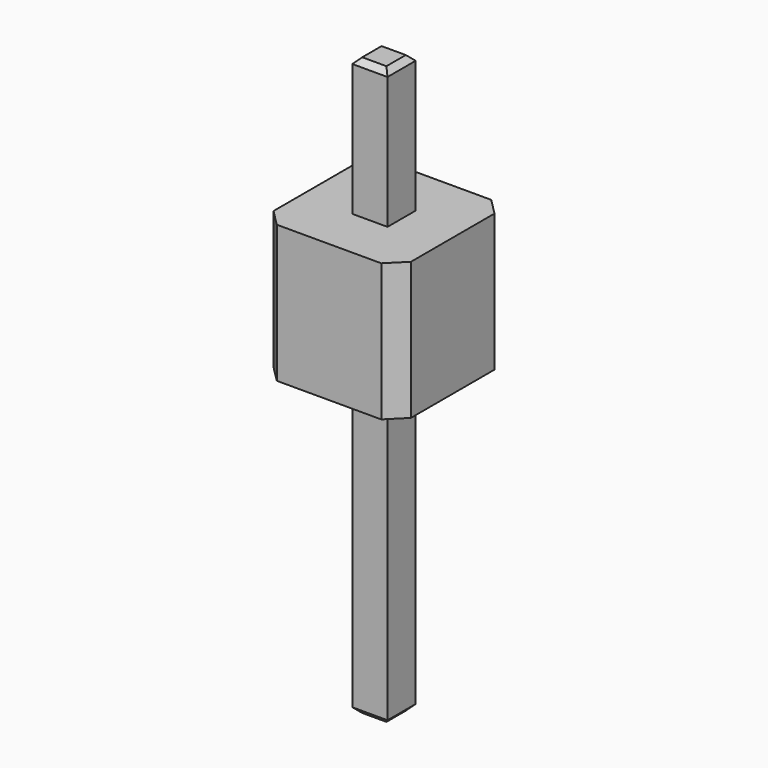
from build123d import *

# Parameters (mm, degrees)
SKETCH005_W                    = 2.5
SKETCH005_H                    = 2.5
PAD002001002001003002002_DEPTH = 2.5
CHAMFER_SIZE                   = 0.3
SKETCH006_W                    = 0.64
SKETCH006_H                    = 0.64
PAD002001002001003002003_DEPTH = 2.5
CHAMFER002002_SIZE             = 0.1
SKETCH007_W                    = 0.64
SKETCH007_H                    = 0.64
PAD002_DEPTH                   = 5.5
CHAMFER002_SIZE                = 0.1


with BuildPart() as part:
    # Sketch005 → Pad002001002001003002002 (new body)
    with BuildSketch(Plane.XY):
        with Locations((1.25, 1.25)):
            Rectangle(SKETCH005_W, SKETCH005_H)
    extrude(amount=PAD002001002001003002002_DEPTH)

    # Chamfer
    chamfer_edges = [part.edges().sort_by_distance(p)[0] for p in [
        (0, 0, 1.25),
        (2.5, 0, 1.25),
        (0, 2.5, 1.25),
        (2.5, 2.5, 1.25),
    ]]
    chamfer(chamfer_edges, length=CHAMFER_SIZE)

    # Sketch006 → Pad002001002001003002003 (new body)
    with BuildSketch(Plane.XY.offset(2.5)):
        with Locations((1.25, 1.25)):
            Rectangle(SKETCH006_W, SKETCH006_H)
    extrude(amount=PAD002001002001003002003_DEPTH)

    # Chamfer002002
    chamfer002002_edges = [part.edges().sort_by_distance(p)[0] for p in [
        (1.25, 1.57, 5),
        (1.57, 1.25, 5),
        (1.25, 0.93, 5),
        (0.93, 1.25, 5),
    ]]
    chamfer(chamfer002002_edges, length=CHAMFER002002_SIZE)

    # Sketch007 → Pad002 (new body)
    with BuildSketch(Plane(origin=(0, 0, 0), x_dir=(1, 0, 0), z_dir=(0, 0, -1))):
        with Locations((1.25, -1.25)):
            Rectangle(SKETCH007_W, SKETCH007_H)
    extrude(amount=PAD002_DEPTH)

    # Chamfer002
    chamfer002_edges = [part.edges().sort_by_distance(p)[0] for p in [
        (1.25, 0.93, -5.5),
        (1.57, 1.25, -5.5),
        (1.25, 1.57, -5.5),
        (0.93, 1.25, -5.5),
    ]]
    chamfer(chamfer002_edges, length=CHAMFER002_SIZE)


solid = part.part
